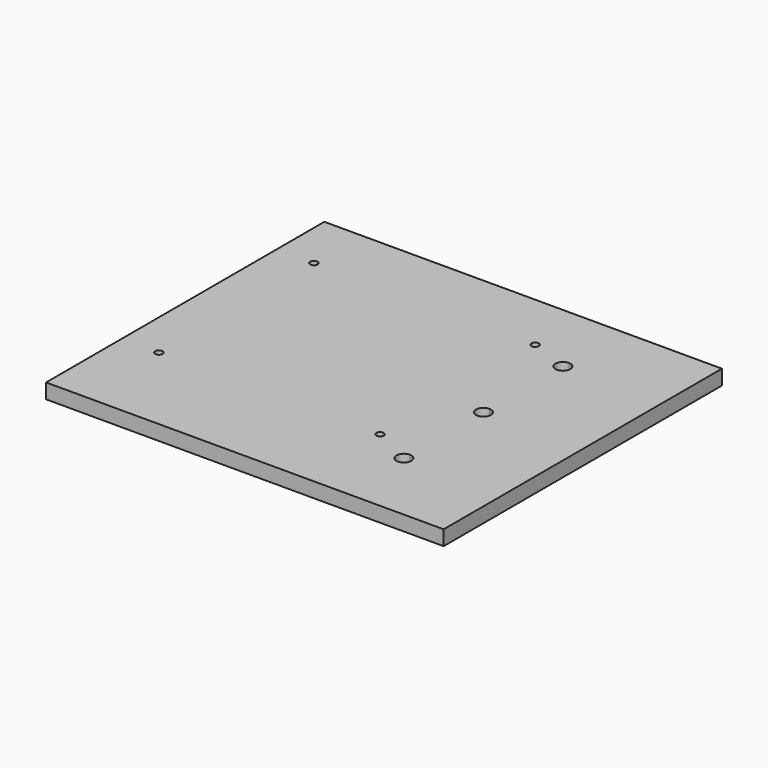
from build123d import *

# Parameters (mm, degrees)
F0_R     = 0.75
F1_DEPTH = 3


with BuildPart() as f1:
    # F0 (on Top) → F1 (new body)
    with BuildSketch(Plane.XY):
        Polygon((-10.812854, 33.494167), (-15.812854, 33.494167), (-15.812854, -36.505833), (64.187146, -36.505833), (64.187146, 33.494167), (44.187146, 33.494167), (-6.812854, 33.494167), (-8.312854, 33.494167), align=None)
        with Locations((-8.312854, -17.505833)):
            Circle(F0_R, mode=Mode.SUBTRACT)
        with BuildLine():
            ThreePointArc((45.687146, -21.505833), (43.126486, -22.566493), (44.187146, -20.005833))
            ThreePointArc((44.187146, -20.005833), (45.247806, -20.445173), (45.687146, -21.505833))
        make_face(mode=Mode.SUBTRACT)
        with BuildLine():
            ThreePointArc((35.437146, -17.505833), (35.656816, -16.975503), (36.187146, -16.755833))
            ThreePointArc((36.187146, -16.755833), (36.717476, -16.975503), (36.937146, -17.505833))
            ThreePointArc((36.937146, -17.505833), (36.187146, -18.255833), (35.437146, -17.505833))
        make_face(mode=Mode.SUBTRACT)
        with BuildLine():
            ThreePointArc((-7.562854, 21.494167), (-8.843184, 20.963837), (-8.312854, 22.244167))
            ThreePointArc((-8.312854, 22.244167), (-7.782524, 22.024497), (-7.562854, 21.494167))
        make_face(mode=Mode.SUBTRACT)
        with BuildLine():
            ThreePointArc((44.187146, -3.005833), (42.687146, -1.505833), (44.187146, -0.005833))
            ThreePointArc((44.187146, -0.005833), (45.247806, -0.445173), (45.687146, -1.505833))
            ThreePointArc((45.687146, -1.505833), (45.247806, -2.566493), (44.187146, -3.005833))
        make_face(mode=Mode.SUBTRACT)
        with BuildLine():
            ThreePointArc((36.187146, 20.744167), (35.656816, 20.963837), (35.437146, 21.494167))
            ThreePointArc((35.437146, 21.494167), (36.187146, 22.244167), (36.937146, 21.494167))
            ThreePointArc((36.937146, 21.494167), (36.717476, 20.963837), (36.187146, 20.744167))
        make_face(mode=Mode.SUBTRACT)
        with BuildLine():
            ThreePointArc((44.187146, 16.994167), (42.687146, 18.494167), (44.187146, 19.994167))
            ThreePointArc((44.187146, 19.994167), (45.247806, 19.554827), (45.687146, 18.494167))
            ThreePointArc((45.687146, 18.494167), (45.247806, 17.433507), (44.187146, 16.994167))
        make_face(mode=Mode.SUBTRACT)
        Polygon((-10.812854, 33.494167), (-15.812854, 33.494167), (-15.812854, -36.505833), (64.187146, -36.505833), (64.187146, 33.494167), (44.187146, 33.494167), (-6.812854, 33.494167), (-8.312854, 33.494167), align=None)
        with Locations((-8.312854, -17.505833)):
            Circle(F0_R, mode=Mode.SUBTRACT)
        with BuildLine():
            ThreePointArc((45.687146, -21.505833), (43.126486, -22.566493), (44.187146, -20.005833))
            ThreePointArc((44.187146, -20.005833), (45.247806, -20.445173), (45.687146, -21.505833))
        make_face(mode=Mode.SUBTRACT)
        with BuildLine():
            ThreePointArc((35.437146, -17.505833), (35.656816, -16.975503), (36.187146, -16.755833))
            ThreePointArc((36.187146, -16.755833), (36.717476, -16.975503), (36.937146, -17.505833))
            ThreePointArc((36.937146, -17.505833), (36.187146, -18.255833), (35.437146, -17.505833))
        make_face(mode=Mode.SUBTRACT)
        with BuildLine():
            ThreePointArc((-7.562854, 21.494167), (-8.843184, 20.963837), (-8.312854, 22.244167))
            ThreePointArc((-8.312854, 22.244167), (-7.782524, 22.024497), (-7.562854, 21.494167))
        make_face(mode=Mode.SUBTRACT)
        with BuildLine():
            ThreePointArc((44.187146, -3.005833), (42.687146, -1.505833), (44.187146, -0.005833))
            ThreePointArc((44.187146, -0.005833), (45.247806, -0.445173), (45.687146, -1.505833))
            ThreePointArc((45.687146, -1.505833), (45.247806, -2.566493), (44.187146, -3.005833))
        make_face(mode=Mode.SUBTRACT)
        with BuildLine():
            ThreePointArc((36.187146, 20.744167), (35.656816, 20.963837), (35.437146, 21.494167))
            ThreePointArc((35.437146, 21.494167), (36.187146, 22.244167), (36.937146, 21.494167))
            ThreePointArc((36.937146, 21.494167), (36.717476, 20.963837), (36.187146, 20.744167))
        make_face(mode=Mode.SUBTRACT)
        with BuildLine():
            ThreePointArc((44.187146, 16.994167), (42.687146, 18.494167), (44.187146, 19.994167))
            ThreePointArc((44.187146, 19.994167), (45.247806, 19.554827), (45.687146, 18.494167))
            ThreePointArc((45.687146, 18.494167), (45.247806, 17.433507), (44.187146, 16.994167))
        make_face(mode=Mode.SUBTRACT)
    extrude(amount=F1_DEPTH)


solid = f1.part
